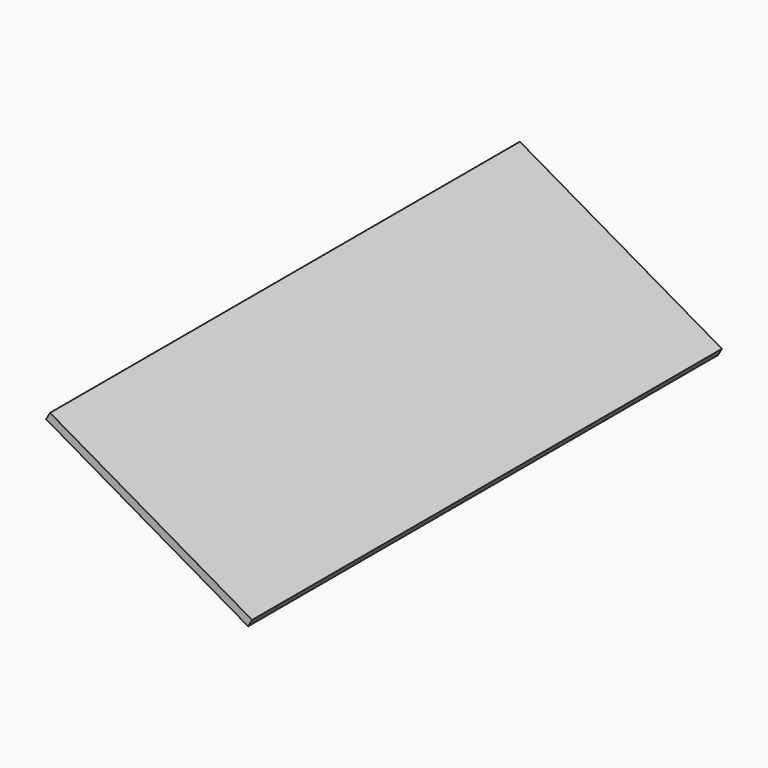
from build123d import *

# Parameters (mm, degrees)
F0_W     = 20.5
F0_H     = 51.6
F1_DEPTH = 0.7
F2_ANGLE = -30


with BuildPart() as f1:
    # F0 (on Top) → F1 (new body)
    with BuildSketch(Plane.XY):
        with Locations((9.75, -15.8)):
            Rectangle(F0_W, F0_H)
    extrude(amount=F1_DEPTH)


with BuildPart() as f1_1:
    # F2: moved
    add(f1.part.rotate(Axis((20, -15.8, 0.7), (0, -1, 0)), F2_ANGLE))


solid = f1_1.part
